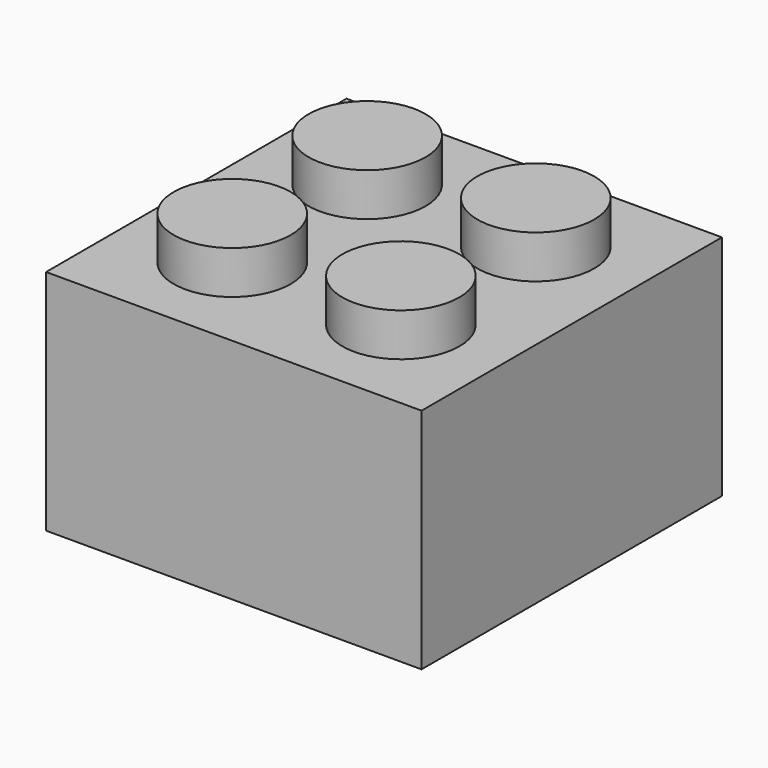
from build123d import *

# Parameters (mm, degrees)
F0_W     = 15.494
F0_H     = 15.494
F1_DEPTH = 9.398
F2_R     = 2.413
F3_DEPTH = 1.778
F4_W     = 14.4526
F4_H     = 14.4526
F5_DEPTH = 8.128
F6_R     = 3.1115
F7_DEPTH = 8.128
F8_R     = 2.7559
F9_DEPTH = 8.128


with BuildPart() as f1:
    # F0 (on Top) → F1 (new body)
    with BuildSketch(Plane.XY):
        Rectangle(F0_W, F0_H)
    extrude(amount=F1_DEPTH)

    # F2 (on face) → F3 (join)
    with BuildSketch(Plane.XY.offset(9.398)):
        with Locations((-3.4798, 3.4798)):
            Circle(F2_R)
        with Locations((3.4798, 3.4798)):
            Circle(F2_R)
        with Locations((3.4798, -3.4798)):
            Circle(F2_R)
        with Locations((-3.4798, -3.4798)):
            Circle(F2_R)
    extrude(amount=F3_DEPTH)

    # F4 (on face) → F5 (cut)
    with BuildSketch(Plane(origin=(0, 0, 0), x_dir=(1, 0, 0), z_dir=(0, 0, -1))):
        Rectangle(F4_W, F4_H)
    extrude(amount=-F5_DEPTH, mode=Mode.SUBTRACT)

    # F6 (on face) → F7 (join)
    with BuildSketch(Plane(origin=(0, 0, 8.128), x_dir=(1, 0, 0), z_dir=(0, 0, -1))):
        Circle(F6_R)
    extrude(amount=F7_DEPTH)

    # F8 (on face) → F9 (cut)
    with BuildSketch(Plane(origin=(0, 0, 0), x_dir=(1, 0, 0), z_dir=(0, 0, -1))):
        Circle(F8_R)
    extrude(amount=-F9_DEPTH, mode=Mode.SUBTRACT)


solid = f1.part
